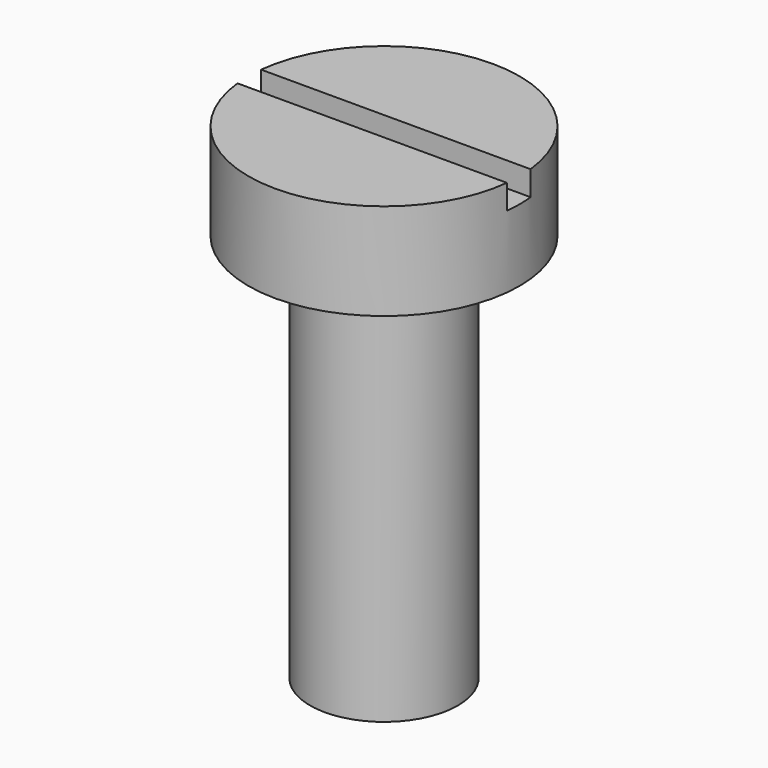
from build123d import *

# Parameters (mm, degrees)
SKETCH_W     = 5.867174
SKETCH_H     = 0.6
POCKET_DEPTH = 0.5


with BuildPart() as part:
    # Sketch001 → Revolution (revolve)
    with BuildSketch(Plane.XZ):
        Polygon((0, 0), (1.5, 0), (1.5, 7.9), (2.75, 7.9), (2.75, 9.86), (0, 9.86), align=None)
    revolve(axis=Axis((0, 0, 0), (0, 0, 1)))

    # Sketch → Pocket (cut)
    with BuildSketch(Plane(origin=(0, 0, 9.86), x_dir=(-1, 0, 0), z_dir=(0, 0, 1))):
        Rectangle(SKETCH_W, SKETCH_H)
    extrude(amount=-POCKET_DEPTH, mode=Mode.SUBTRACT)


solid = part.part
